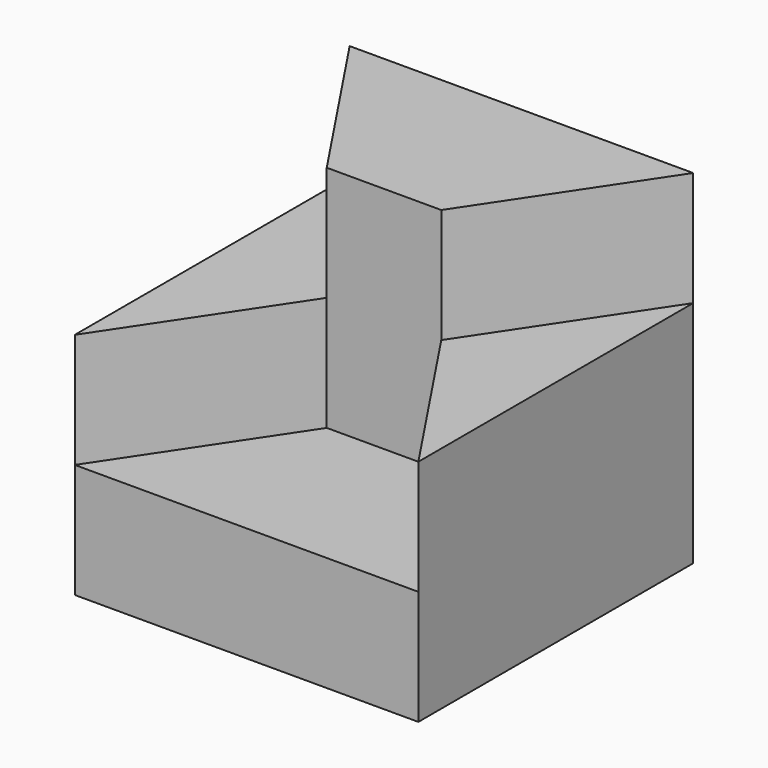
from build123d import *

# Parameters (mm, degrees)
F1_DEPTH = 30
F2_DEPTH = 20
F3_DEPTH = 10


with BuildPart() as f1:
    # F0 (on Top) → F1 (new body)
    with BuildSketch(Plane.XY):
        Polygon((10, 15), (0, 0), (30, 0), (20, 15), align=None)
        Polygon((0, 30), (0, 0), (10, 15), align=None)
        Polygon((20, 15), (30, 0), (30, 30), align=None)
        Polygon((30, 30), (0, 30), (10, 15), (20, 15), align=None)
    extrude(amount=-F1_DEPTH)

    # F0 (on Top) → F2 (cut)
    with BuildSketch(Plane.XY):
        Polygon((10, 15), (0, 0), (30, 0), (20, 15), align=None)
    extrude(amount=-F2_DEPTH, mode=Mode.SUBTRACT)

    # F0 (on Top) → F3 (cut)
    with BuildSketch(Plane.XY):
        Polygon((0, 30), (0, 0), (10, 15), align=None)
        Polygon((20, 15), (30, 0), (30, 30), align=None)
    extrude(amount=-F3_DEPTH, mode=Mode.SUBTRACT)


solid = f1.part
